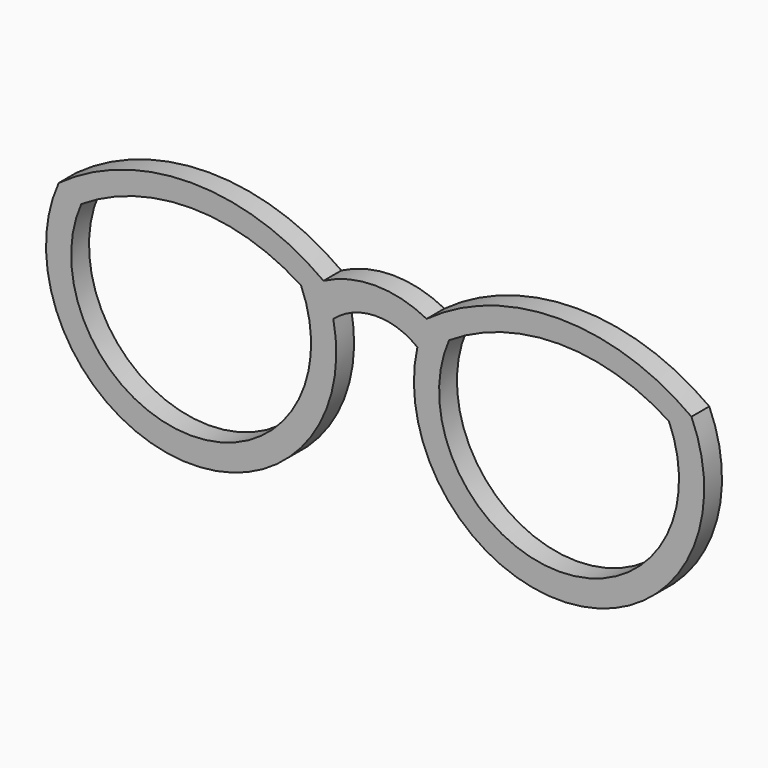
from build123d import *

# Parameters (mm, degrees)
F1_DEPTH = 4.318


with BuildPart() as f1:
    # F0 (on Front) → F1 (new body)
    with BuildSketch(Plane.XZ):
        with BuildLine():
            ThreePointArc((61.305090785, 0), (35.6470495462, 8.3912852338), (9.9890083075, 0))
            ThreePointArc((9.9890083075, 0), (8.9529428297, -2.6635074234), (8.1925486187, -5.4184128868))
            ThreePointArc((8.1925486187, -5.4184128868), (38.5012773589, -39.4916683371), (61.305090785, 0))
        make_face()
        with BuildLine():
            ThreePointArc((56.9369018065, -2.178509249), (35.6713377141, -34.7604997538), (14.3377365638, -2.2230170087))
            ThreePointArc((14.3377365638, -2.2230170087), (35.6307463249, 4.0902378672), (56.9369018065, -2.178509249))
        make_face(mode=Mode.SUBTRACT)
        with BuildLine():
            ThreePointArc((8.1925486187, -5.4184128868), (8.9529428297, -2.6635074234), (9.9890083075, 0))
            ThreePointArc((9.9890083075, 0), (0, 2.4535281402), (-9.9890083075, 0))
            ThreePointArc((-9.9890083075, 0), (-8.8771972382, -2.8953286037), (-8.0909636629, -5.895476657))
            ThreePointArc((-8.0909636629, -5.895476657), (-0.0356908194, -2.7050294906), (8.1925486187, -5.4184128868))
        make_face()
        with BuildLine():
            ThreePointArc((-8.0909636629, -5.895476657), (-8.8771972382, -2.8953286037), (-9.9890083075, 0))
            ThreePointArc((-9.9890083075, 0), (-35.6470495462, 8.3912852338), (-61.305090785, 0))
            ThreePointArc((-61.305090785, 0), (-38.743790514, -39.4658647747), (-8.0909636629, -5.895476657))
        make_face()
        with BuildLine():
            ThreePointArc((-14.3377365638, -2.2230170087), (-35.6713377141, -34.7604997538), (-56.9369018065, -2.178509249))
            ThreePointArc((-56.9369018065, -2.178509249), (-35.6307463249, 4.0902378672), (-14.3377365638, -2.2230170087))
        make_face(mode=Mode.SUBTRACT)
    extrude(amount=F1_DEPTH)


solid = f1.part
